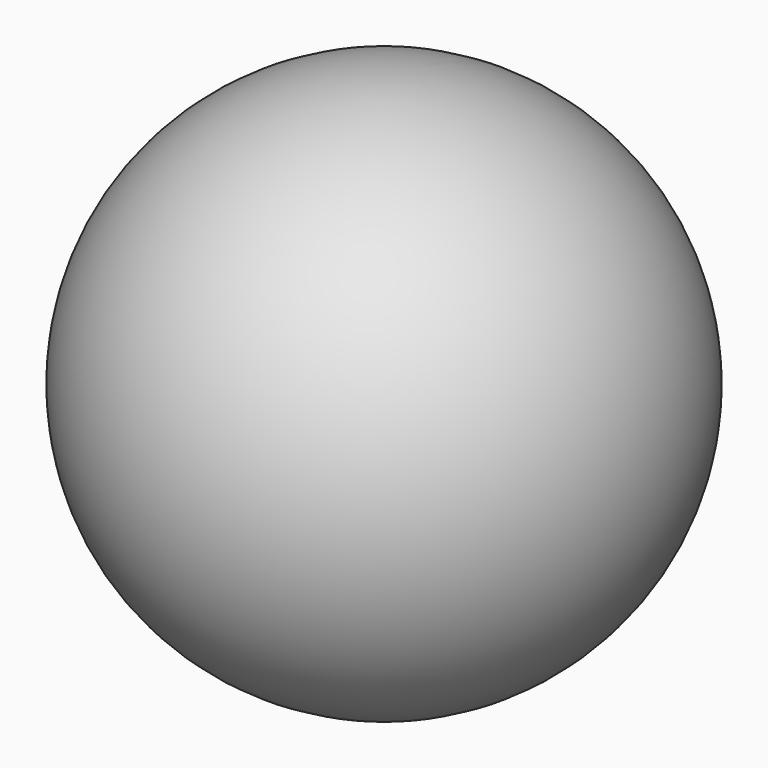
from build123d import *


with BuildPart() as f1:
    # F0 (on Right) → F1 (revolve)
    with BuildSketch(Plane.YZ):
        with BuildLine():
            ThreePointArc((0, -1.5), (1.5, 0), (0, 1.5))
            Line((0, 1.5), (0, -1.5))
        make_face()
    revolve(axis=Axis((0, 0, 0), (0, 0, -1)))


solid = f1.part
